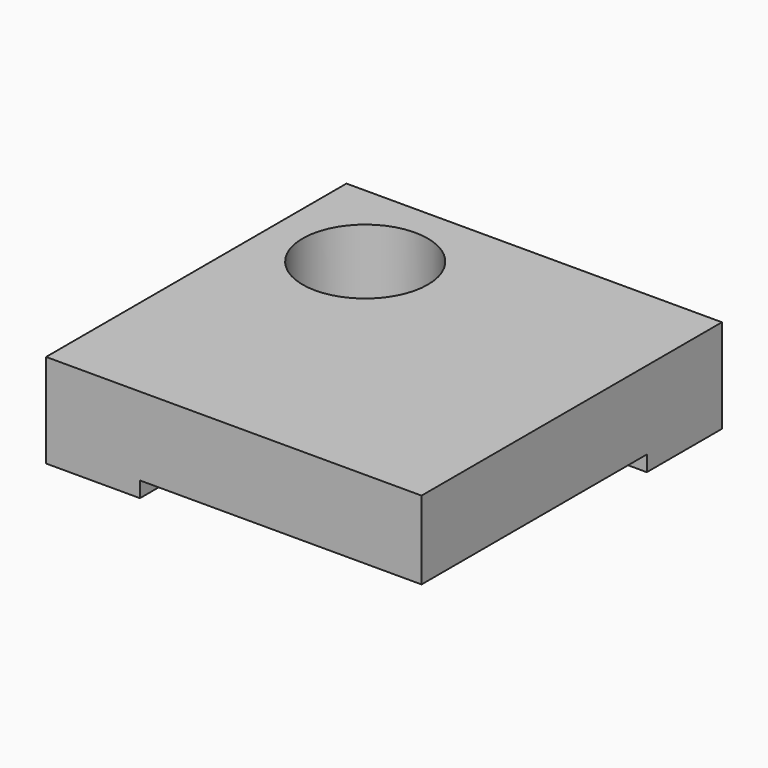
from build123d import *

# Parameters (mm, degrees)
F1_DEPTH = 19.05
F2_DEPTH = 3.175
F4_D     = 3.81
F4_DEPTH = 21.59
F4_TIP   = 1.1446394792
F6_D     = 3.81
F6_DEPTH = 21.59
F6_TIP   = 1.1446394792


with BuildPart() as f1:
    # F0 (on Top) → F1 (new body)
    with BuildSketch(Plane.XY):
        with BuildLine():
            Line((38.1, -42.2910004854), (38.1, 14.8589995146))
            Line((38.1, 14.8589995146), (-6.3500002354, 14.8589995146))
            ThreePointArc((-6.3500002354, 14.8589995146), (-10.0697441144, 5.8787433935), (-19.0500002354, 2.1589995146))
            Line((-19.0500002354, 2.1589995146), (-19.0500002354, -42.2910004854))
            Line((-19.0500002354, -42.2910004854), (38.1, -42.2910004854))
        make_face()
        with BuildLine():
            Line((38.1, 14.8589995146), (38.1, 33.9089995146))
            Line((38.1, 33.9089995146), (-38.1, 33.9089995146))
            Line((-38.1, 33.9089995146), (-38.1, -42.2910004854))
            Line((-38.1, -42.2910004854), (-19.0500002354, -42.2910004854))
            Line((-19.0500002354, -42.2910004854), (-19.0500002354, 2.1589995146))
            ThreePointArc((-19.0500002354, 2.1589995146), (-28.0302563565, 23.8392556356), (-6.3500002354, 14.8589995146))
            Line((-6.3500002354, 14.8589995146), (38.1, 14.8589995146))
        make_face()
    extrude(amount=F1_DEPTH)

    # F0 (on Top) → F2 (cut)
    with BuildSketch(Plane.XY):
        with BuildLine():
            Line((38.1, -42.2910004854), (38.1, 14.8589995146))
            Line((38.1, 14.8589995146), (-6.3500002354, 14.8589995146))
            ThreePointArc((-6.3500002354, 14.8589995146), (-10.0697441144, 5.8787433935), (-19.0500002354, 2.1589995146))
            Line((-19.0500002354, 2.1589995146), (-19.0500002354, -42.2910004854))
            Line((-19.0500002354, -42.2910004854), (38.1, -42.2910004854))
        make_face()
    extrude(amount=F2_DEPTH, mode=Mode.SUBTRACT)

    # F4
    with Locations(Plane(origin=(-38.1, 0, 0), x_dir=(0, -1, 0), z_dir=(-1, 0, 0))):
        with Locations((6.0960004854, 9.525)):
            Hole(F4_D / 2, depth=F4_DEPTH)
            with Locations((0, 0, -(F4_DEPTH + F4_TIP / 2))):  # 118° drill point
                Cone(0, F4_D / 2, F4_TIP, mode=Mode.SUBTRACT)

    # F6
    with Locations(Plane(origin=(0, 33.9089995146, 0), x_dir=(-1, 0, 0), z_dir=(0, 1, 0))):
        with Locations((-3.81, 9.525)):
            Hole(F6_D / 2, depth=F6_DEPTH)
            with Locations((0, 0, -(F6_DEPTH + F6_TIP / 2))):  # 118° drill point
                Cone(0, F6_D / 2, F6_TIP, mode=Mode.SUBTRACT)


solid = f1.part
